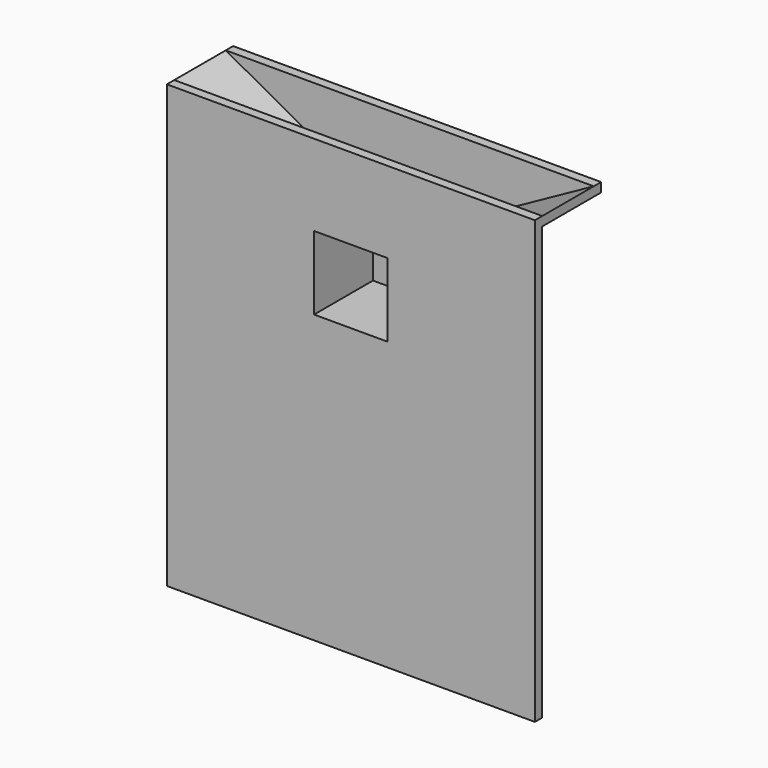
from build123d import *

# Parameters (mm, degrees)
F1_DEPTH = 19.05
F2_DEPTH = 152.4
F4_DEPTH = 19.05


with BuildPart() as f1:
    # F0 (on Front) → F1 (new body)
    with BuildSketch(Plane.XZ):
        Polygon((-762, 0), (0, 0), (0, 895.35), (-285.75, 737.693186), (-285.75, 593.832731), (-285.75, 574.782731), (-476.25, 574.782731), (-476.25, 593.832731), (-476.25, 737.693186), (-762, 895.35), align=None)
        Polygon((-304.8, 746.232731), (0, 914.4), (-762, 914.4), (-457.2, 746.232731), align=None)
        Polygon((-285.75, 737.693186), (0, 895.35), (0, 914.4), (-304.8, 746.232731), (-304.8, 593.832731), (-457.2, 593.832731), (-457.2, 746.232731), (-762, 914.4), (-762, 895.35), (-476.25, 737.693186), (-476.25, 593.832731), (-476.25, 574.782731), (-285.75, 574.782731), (-285.75, 593.832731), align=None)
    extrude(amount=F1_DEPTH)

    # F0 (on Front) → F2 (join)
    with BuildSketch(Plane.XZ):
        Polygon((-285.75, 737.693186), (0, 895.35), (0, 914.4), (-304.8, 746.232731), (-304.8, 593.832731), (-457.2, 593.832731), (-457.2, 746.232731), (-762, 914.4), (-762, 895.35), (-476.25, 737.693186), (-476.25, 593.832731), (-476.25, 574.782731), (-285.75, 574.782731), (-285.75, 593.832731), align=None)
    extrude(amount=-F2_DEPTH)

    # F3 (on face) → F4 (join)
    with BuildSketch(Plane(origin=(0, 152.4, 0), x_dir=(-1, 0, 0), z_dir=(0, 1, 0))):
        Polygon((762, 914.4), (0, 914.4), (304.8, 746.232731), (304.8, 593.832731), (457.2, 593.832731), (457.2, 746.232731), align=None)
    extrude(amount=-F4_DEPTH)


solid = f1.part
